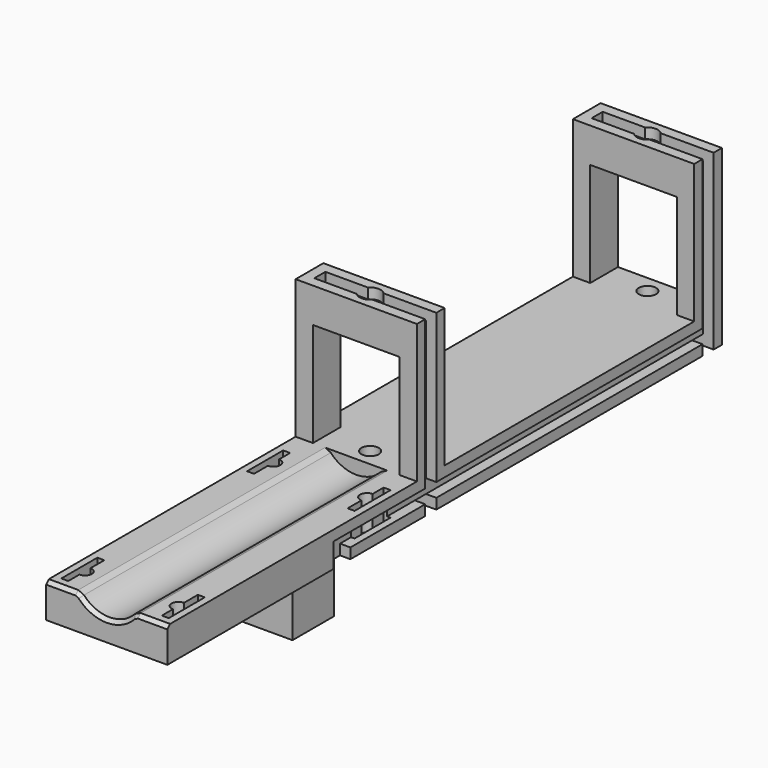
from build123d import *

# Parameters (mm, degrees)
CYLINDER005_R     = 3
CYLINDER005_DEPTH = 3
CYLINDER006_R     = 3
CYLINDER006_DEPTH = 3
CYLINDER002_R     = 2.5
CYLINDER002_DEPTH = 60
BOX010_W          = 30
BOX010_H          = 4
BOX010_DEPTH      = 3
BOX008_W          = 30
BOX008_H          = 4
BOX008_DEPTH      = 3
BOX006_W          = 3
BOX006_H          = 4
BOX006_DEPTH      = 50
BOX004_W          = 3
BOX004_H          = 136
BOX004_DEPTH      = 4
BOX003_W          = 25
BOX003_H          = 220
BOX003_DEPTH      = 30
BOX002_W          = 35
BOX002_H          = 10
BOX002_DEPTH      = 50
BOX021_W          = 3
BOX021_H          = 6
BOX021_DEPTH      = 4
BOX018_W          = 20
BOX018_H          = 90
BOX018_DEPTH      = 4
CYLINDER008_R     = 2
CYLINDER008_DEPTH = 10
CYLINDER009_R     = 2
CYLINDER009_DEPTH = 10
CYLINDER010_R     = 2
CYLINDER010_DEPTH = 10
CYLINDER007_R     = 2
CYLINDER007_DEPTH = 10
BOX015_W          = 2
BOX015_H          = 13
BOX015_DEPTH      = 10
BOX016_W          = 2
BOX016_H          = 13
BOX016_DEPTH      = 10
BOX017_W          = 2
BOX017_H          = 13
BOX017_DEPTH      = 10
BOX014_W          = 2
BOX014_H          = 13
BOX014_DEPTH      = 10
CYLINDER003_R     = 3
CYLINDER003_DEPTH = 3
CYLINDER001_R     = 2.5
CYLINDER001_DEPTH = 60
BOX007_W          = 30
BOX007_H          = 4
BOX007_DEPTH      = 3
BOX005_W          = 3
BOX005_H          = 4
BOX005_DEPTH      = 50
CYLINDER_R        = 10
CYLINDER_DEPTH    = 90
BOX_W             = 35
BOX_H             = 200
BOX_DEPTH         = 10
CHAMFER_SIZE      = 1
BOX023_W          = 4
BOX023_H          = 4
BOX023_DEPTH      = 20
BOX022_W          = 20
BOX022_H          = 3
BOX022_DEPTH      = 4
BOX019_W          = 15
BOX019_H          = 15
BOX019_DEPTH      = 20
CYLINDER004_R     = 3
CYLINDER004_DEPTH = 3
BOX009_W          = 30
BOX009_H          = 4
BOX009_DEPTH      = 3
BOX001_W          = 35
BOX001_H          = 10
BOX001_DEPTH      = 50


with BuildPart() as cilindro005:
    # Cylinder005 → Cylinder005 (new body)
    with BuildSketch(Plane(origin=(17.5, 195, 0), x_dir=(1, 0, 0), z_dir=(0, 0, 1))):
        Circle(CYLINDER005_R)
    extrude(amount=CYLINDER005_DEPTH)


with BuildPart() as cilindro006:
    # Cylinder006 → Cylinder006 (new body)
    with BuildSketch(Plane(origin=(17.5, 195, 47), x_dir=(1, 0, 0), z_dir=(0, 0, 1))):
        Circle(CYLINDER006_R)
    extrude(amount=CYLINDER006_DEPTH)


with BuildPart() as cilindro002:
    # Cylinder002 → Cylinder002 (new body)
    with BuildSketch(Plane(origin=(17.5, 195, -1), x_dir=(1, 0, 0), z_dir=(0, 0, 1))):
        Circle(CYLINDER002_R)
    extrude(amount=CYLINDER002_DEPTH)


with BuildPart() as cubo010:
    # Box010 → Box010 (new body)
    with BuildSketch(Plane(origin=(3, 193, 47), x_dir=(1, 0, 0), z_dir=(0, 0, 1))):
        with Locations((15, 2)):
            Rectangle(BOX010_W, BOX010_H)
    extrude(amount=BOX010_DEPTH)


with BuildPart() as cubo008:
    # Box008 → Box008 (new body)
    with BuildSketch(Plane(origin=(3, 193, 0), x_dir=(1, 0, 0), z_dir=(0, 0, 1))):
        with Locations((15, 2)):
            Rectangle(BOX008_W, BOX008_H)
    extrude(amount=BOX008_DEPTH)


with BuildPart() as cubo006:
    # Box006 → Box006 (new body)
    with BuildSketch(Plane(origin=(32, 193, 0), x_dir=(1, 0, 0), z_dir=(0, 0, 1))):
        with Locations((1.5, 2)):
            Rectangle(BOX006_W, BOX006_H)
    extrude(amount=BOX006_DEPTH)


with BuildPart() as cubo004:
    # Box004 → Box004 (new body)
    with BuildSketch(Plane(origin=(32, 60, 3), x_dir=(1, 0, 0), z_dir=(0, 0, 1))):
        with Locations((1.5, 68)):
            Rectangle(BOX004_W, BOX004_H)
    extrude(amount=BOX004_DEPTH)


with BuildPart() as cubo003:
    # Box003 → Box003 (new body)
    with BuildSketch(Plane(origin=(5, 0, 10), x_dir=(1, 0, 0), z_dir=(0, 0, 1))):
        with Locations((12.5, 110)):
            Rectangle(BOX003_W, BOX003_H)
    extrude(amount=BOX003_DEPTH)


with BuildPart() as cut023:
    # Box002 → Box002 (new body)
    with BuildSketch(Plane(origin=(0, 190, 0), x_dir=(1, 0, 0), z_dir=(0, 0, 1))):
        with Locations((17.5, 5)):
            Rectangle(BOX002_W, BOX002_H)
    extrude(amount=BOX002_DEPTH)

    # Cut002: cut Cubo003
    add(cubo003.part, mode=Mode.SUBTRACT)

    # Cut005: cut Cubo004
    add(cubo004.part, mode=Mode.SUBTRACT)

    # Cut007: cut Cubo006
    add(cubo006.part, mode=Mode.SUBTRACT)

    # Cut011: cut Cubo008
    add(cubo008.part, mode=Mode.SUBTRACT)

    # Cut015: cut Cubo010
    add(cubo010.part, mode=Mode.SUBTRACT)

    # Cut017: cut Cilindro002
    add(cilindro002.part, mode=Mode.SUBTRACT)

    # Cut021: cut Cilindro006
    add(cilindro006.part, mode=Mode.SUBTRACT)

    # Cut023: cut Cilindro005
    add(cilindro005.part, mode=Mode.SUBTRACT)


with BuildPart() as cubo021:
    # Box021 → Box021 (new body)
    with BuildSketch(Plane(origin=(32, 60, 0), x_dir=(1, 0, 0), z_dir=(0, 0, 1))):
        with Locations((1.5, 3)):
            Rectangle(BOX021_W, BOX021_H)
    extrude(amount=BOX021_DEPTH)


with BuildPart() as cubo018:
    # Box018 → Box018 (new body)
    with BuildSketch(Plane(origin=(7.5, 100, 0), x_dir=(1, 0, 0), z_dir=(0, 0, 1))):
        with Locations((10, 45)):
            Rectangle(BOX018_W, BOX018_H)
    extrude(amount=BOX018_DEPTH)


with BuildPart() as cilindro008:
    # Cylinder008 → Cylinder008 (new body)
    with BuildSketch(Plane(origin=(31, 9, 0), x_dir=(1, 0, 0), z_dir=(0, 0, 1))):
        Circle(CYLINDER008_R)
    extrude(amount=CYLINDER008_DEPTH)


with BuildPart() as cilindro009:
    # Cylinder009 → Cylinder009 (new body)
    with BuildSketch(Plane(origin=(31, 77, 0), x_dir=(1, 0, 0), z_dir=(0, 0, 1))):
        Circle(CYLINDER009_R)
    extrude(amount=CYLINDER009_DEPTH)


with BuildPart() as cilindro010:
    # Cylinder010 → Cylinder010 (new body)
    with BuildSketch(Plane(origin=(4, 77, 0), x_dir=(1, 0, 0), z_dir=(0, 0, 1))):
        Circle(CYLINDER010_R)
    extrude(amount=CYLINDER010_DEPTH)


with BuildPart() as cilindro007:
    # Cylinder007 → Cylinder007 (new body)
    with BuildSketch(Plane(origin=(4, 9, 0), x_dir=(1, 0, 0), z_dir=(0, 0, 1))):
        Circle(CYLINDER007_R)
    extrude(amount=CYLINDER007_DEPTH)


with BuildPart() as cubo015:
    # Box015 → Box015 (new body)
    with BuildSketch(Plane(origin=(31, 3, 0), x_dir=(1, 0, 0), z_dir=(0, 0, 1))):
        with Locations((1, 6.5)):
            Rectangle(BOX015_W, BOX015_H)
    extrude(amount=BOX015_DEPTH)


with BuildPart() as cubo016:
    # Box016 → Box016 (new body)
    with BuildSketch(Plane(origin=(2, 70, 0), x_dir=(1, 0, 0), z_dir=(0, 0, 1))):
        with Locations((1, 6.5)):
            Rectangle(BOX016_W, BOX016_H)
    extrude(amount=BOX016_DEPTH)


with BuildPart() as cubo017:
    # Box017 → Box017 (new body)
    with BuildSketch(Plane(origin=(31, 70, 0), x_dir=(1, 0, 0), z_dir=(0, 0, 1))):
        with Locations((1, 6.5)):
            Rectangle(BOX017_W, BOX017_H)
    extrude(amount=BOX017_DEPTH)


with BuildPart() as cubo014:
    # Box014 → Box014 (new body)
    with BuildSketch(Plane(origin=(2, 3, 0), x_dir=(1, 0, 0), z_dir=(0, 0, 1))):
        with Locations((1, 6.5)):
            Rectangle(BOX014_W, BOX014_H)
    extrude(amount=BOX014_DEPTH)


with BuildPart() as cilindro003:
    # Cylinder003 → Cylinder003 (new body)
    with BuildSketch(Plane(origin=(17.5, 95, 0), x_dir=(1, 0, 0), z_dir=(0, 0, 1))):
        Circle(CYLINDER003_R)
    extrude(amount=CYLINDER003_DEPTH)


with BuildPart() as cilindro001:
    # Cylinder001 → Cylinder001 (new body)
    with BuildSketch(Plane(origin=(17.5, 95, -1), x_dir=(1, 0, 0), z_dir=(0, 0, 1))):
        Circle(CYLINDER001_R)
    extrude(amount=CYLINDER001_DEPTH)


with BuildPart() as cubo007:
    # Box007 → Box007 (new body)
    with BuildSketch(Plane(origin=(3, 93, 0), x_dir=(1, 0, 0), z_dir=(0, 0, 1))):
        with Locations((15, 2)):
            Rectangle(BOX007_W, BOX007_H)
    extrude(amount=BOX007_DEPTH)


with BuildPart() as cubo005:
    # Box005 → Box005 (new body)
    with BuildSketch(Plane(origin=(32, 93, 0), x_dir=(1, 0, 0), z_dir=(0, 0, 1))):
        with Locations((1.5, 2)):
            Rectangle(BOX005_W, BOX005_H)
    extrude(amount=BOX005_DEPTH)


with BuildPart() as cilindro:
    # Cylinder → Cylinder (new body)
    with BuildSketch(Plane(origin=(17.5, 0, 16), x_dir=(1, 0, 0), z_dir=(0, 1, 0))):
        Circle(CYLINDER_R)
    extrude(amount=CYLINDER_DEPTH)


with BuildPart() as cut037:
    # Box → Box (new body)
    with BuildSketch(Plane.XY):
        with Locations((17.5, 100)):
            Rectangle(BOX_W, BOX_H)
    extrude(amount=BOX_DEPTH)

    # Cut: cut Cilindro
    add(cilindro.part, mode=Mode.SUBTRACT)

    # Chamfer
    chamfer_edges = [cut037.edges().sort_by_distance(p)[0] for p in [
        (30.25, 0, 10),
        (17.5, 0, 6),
        (4.75, 0, 10),
        (25.5, 45, 10),
        (9.5, 45, 10),
    ]]
    chamfer(chamfer_edges, length=CHAMFER_SIZE)

    # Cut003: cut Cubo004
    add(cubo004.part, mode=Mode.SUBTRACT)

    # Cut008: cut Cubo005
    add(cubo005.part, mode=Mode.SUBTRACT)

    # Cut009: cut Cubo006
    add(cubo006.part, mode=Mode.SUBTRACT)

    # Cut012: cut Cubo007
    add(cubo007.part, mode=Mode.SUBTRACT)

    # Cut013: cut Cubo008
    add(cubo008.part, mode=Mode.SUBTRACT)

    # Cut018: cut Cilindro001
    add(cilindro001.part, mode=Mode.SUBTRACT)

    # Cut019: cut Cilindro002
    add(cilindro002.part, mode=Mode.SUBTRACT)

    # Cut024: cut Cilindro003
    add(cilindro003.part, mode=Mode.SUBTRACT)

    # Cut025: cut Cilindro005
    add(cilindro005.part, mode=Mode.SUBTRACT)

    # Cut028: cut Cubo014
    add(cubo014.part, mode=Mode.SUBTRACT)

    # Cut029: cut Cubo017
    add(cubo017.part, mode=Mode.SUBTRACT)

    # Cut030: cut Cubo016
    add(cubo016.part, mode=Mode.SUBTRACT)

    # Cut031: cut Cubo015
    add(cubo015.part, mode=Mode.SUBTRACT)

    # Cut032: cut Cilindro007
    add(cilindro007.part, mode=Mode.SUBTRACT)

    # Cut033: cut Cilindro010
    add(cilindro010.part, mode=Mode.SUBTRACT)

    # Cut034: cut Cilindro009
    add(cilindro009.part, mode=Mode.SUBTRACT)

    # Cut035: cut Cilindro008
    add(cilindro008.part, mode=Mode.SUBTRACT)

    # Cut036: cut Cubo018
    add(cubo018.part, mode=Mode.SUBTRACT)

    # Cut037: cut Cubo021
    add(cubo021.part, mode=Mode.SUBTRACT)


with BuildPart() as cubo023:
    # Box023 → Box023 (new body)
    with BuildSketch(Plane(origin=(16, 61, -20), x_dir=(1, 0, 0), z_dir=(0, 0, 1))):
        with Locations((2, 2)):
            Rectangle(BOX023_W, BOX023_H)
    extrude(amount=BOX023_DEPTH)


with BuildPart() as cubo022:
    # Box022 → Box022 (new body)
    with BuildSketch(Plane(origin=(8, 56, -7), x_dir=(1, 0, 0), z_dir=(0, 0, 1))):
        with Locations((10, 1.5)):
            Rectangle(BOX022_W, BOX022_H)
    extrude(amount=BOX022_DEPTH)


with BuildPart() as cut039:
    # Box019 → Box019 (new body)
    with BuildSketch(Plane(origin=(10.5, 50, -20), x_dir=(1, 0, 0), z_dir=(0, 0, 1))):
        with Locations((7.5, 7.5)):
            Rectangle(BOX019_W, BOX019_H)
    extrude(amount=BOX019_DEPTH)

    # Cut038: cut Cubo022
    add(cubo022.part, mode=Mode.SUBTRACT)

    # Cut039: cut Cubo023
    add(cubo023.part, mode=Mode.SUBTRACT)


with BuildPart() as cut039_1:
    # Cut039 placement: moved
    add(cut039.part.moved(Location((0, 7, 0))))


with BuildPart() as cilindro004:
    # Cylinder004 → Cylinder004 (new body)
    with BuildSketch(Plane(origin=(17.5, 95, 47), x_dir=(1, 0, 0), z_dir=(0, 0, 1))):
        Circle(CYLINDER004_R)
    extrude(amount=CYLINDER004_DEPTH)


with BuildPart() as cubo009:
    # Box009 → Box009 (new body)
    with BuildSketch(Plane(origin=(3, 93, 47), x_dir=(1, 0, 0), z_dir=(0, 0, 1))):
        with Locations((15, 2)):
            Rectangle(BOX009_W, BOX009_H)
    extrude(amount=BOX009_DEPTH)


with BuildPart() as fusion:
    # Box001 → Box001 (new body)
    with BuildSketch(Plane(origin=(0, 90, 0), x_dir=(1, 0, 0), z_dir=(0, 0, 1))):
        with Locations((17.5, 5)):
            Rectangle(BOX001_W, BOX001_H)
    extrude(amount=BOX001_DEPTH)

    # Cut001: cut Cubo003
    add(cubo003.part, mode=Mode.SUBTRACT)

    # Cut004: cut Cubo004
    add(cubo004.part, mode=Mode.SUBTRACT)

    # Cut006: cut Cubo005
    add(cubo005.part, mode=Mode.SUBTRACT)

    # Cut010: cut Cubo007
    add(cubo007.part, mode=Mode.SUBTRACT)

    # Cut014: cut Cubo009
    add(cubo009.part, mode=Mode.SUBTRACT)

    # Cut016: cut Cilindro001
    add(cilindro001.part, mode=Mode.SUBTRACT)

    # Cut020: cut Cilindro004
    add(cilindro004.part, mode=Mode.SUBTRACT)

    # Cut022: cut Cilindro003
    add(cilindro003.part, mode=Mode.SUBTRACT)

    # Fusion: union Cut023, Cut037, Cut039
    add(cut023.part)
    add(cut037.part)
    add(cut039_1.part)


solid = fusion.part
